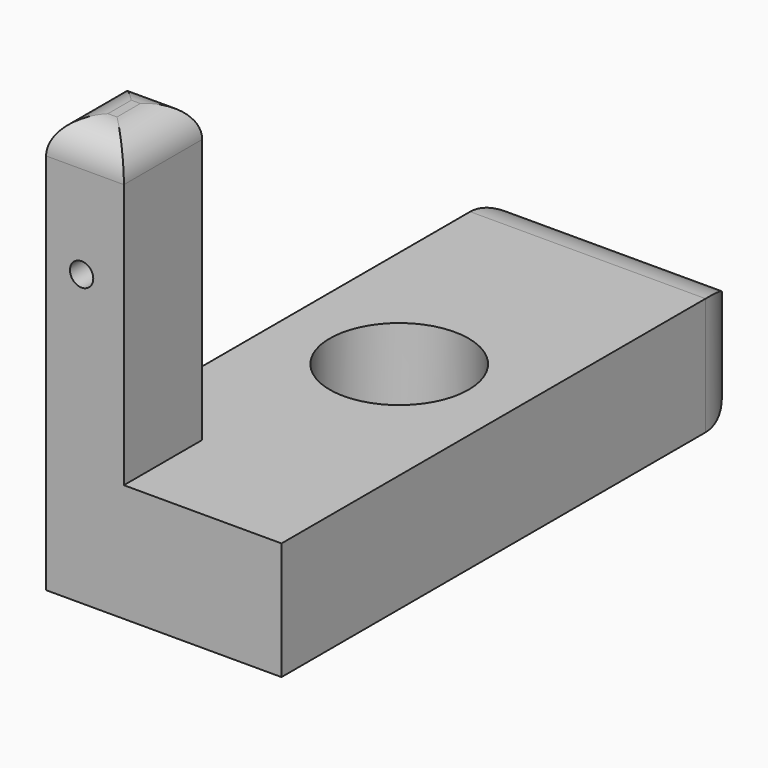
from build123d import *

# Parameters (mm, degrees)
F0_W     = 20
F0_H     = 50
F0_R     = 5.8996417904
F1_DEPTH = 10
F2_W     = 6.6084070038
F2_H     = 8.3198506385
F3_DEPTH = 25.4
F4_R     = 2.921
F5_R     = 4.9670029832
F6_R     = 0.9909047391
F7_DEPTH = 9.017


with BuildPart() as f1:
    # F0 (on Top) → F1 (new body)
    with BuildSketch(Plane.XY):
        Rectangle(F0_W, F0_H)
        Circle(F0_R, mode=Mode.SUBTRACT)
    extrude(amount=F1_DEPTH)

    # F2 (on face) → F3 (join)
    with BuildSketch(Plane.XY.offset(10)):
        with Locations((-6.6957964981, -20.8400746807)):
            Rectangle(F2_W, F2_H)
    extrude(amount=F3_DEPTH)

    # F4
    f4_edges = [f1.edges().sort_by_distance(p)[0] for p in [
        (-10, -20.840075, 35.4),
        (-6.695796, -25, 35.4),
        (-3.391593, -20.840075, 35.4),
        (-6.695796, -16.680149, 35.4),
    ]]
    fillet(f4_edges, radius=F4_R)

    # F5
    f5_edges = [f1.edges().sort_by_distance(p)[0] for p in [
        (10, 25, 5),
        (-10, 25, 5),
        (0, 25, 0),
        (0, 25, 10),
    ]]
    fillet(f5_edges, radius=F5_R)

    # F6 (on face) → F7 (cut)
    with BuildSketch(Plane.XZ.offset(25)):
        with Locations((-6.9817616604, 24.5982613415)):
            Circle(F6_R)
    extrude(amount=-F7_DEPTH, mode=Mode.SUBTRACT)


solid = f1.part
